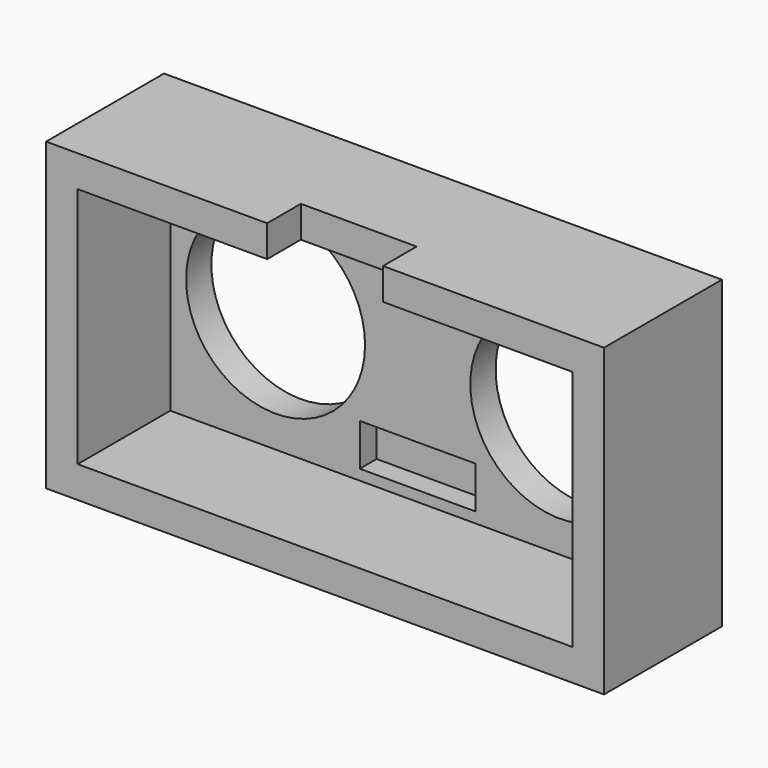
from build123d import *

# Parameters (mm, degrees)
F0_W     = 11
F0_H     = 4
F0_R     = 8.5
F1_DEPTH = 3
F2_DEPTH = 1
F0_W_2   = 3
F0_H_2   = 23
F0_H_3   = 3
F3_DEPTH = 14
F4_DEPTH = 10


with BuildPart() as f1:
    # F0 (on Front) → F1 (new body)
    with BuildSketch(Plane.XZ):
        Polygon((-5.5, 11.5), (-23.5, 11.5), (-23.5, -11.5), (-5.5, -11.5), (5.5, -11.5), (23.5, -11.5), (23.5, 11.5), (5.5, 11.5), align=None)
        with Locations((0, -8.5)):
            Rectangle(F0_W, F0_H, mode=Mode.SUBTRACT)
        with Locations((-13.5, 0)):
            Circle(F0_R, mode=Mode.SUBTRACT)
        with Locations((13.5, 0)):
            Circle(F0_R, mode=Mode.SUBTRACT)
    extrude(amount=F1_DEPTH)

    # F0 (on Front) → F2 (join)
    with BuildSketch(Plane.XZ):
        with Locations((0, -8.5)):
            Rectangle(F0_W, F0_H)
    extrude(amount=F2_DEPTH)

    # F0 (on Front) → F3 (join)
    with BuildSketch(Plane.XZ):
        Polygon((-26.5, 11.5), (-23.5, 11.5), (-5.5, 11.5), (-5.5, 14.5), (-26.5, 14.5), align=None)
        Polygon((5.5, 14.5), (5.5, 11.5), (23.5, 11.5), (26.5, 11.5), (26.5, 14.5), align=None)
        with Locations((-25, 0)):
            Rectangle(F0_W_2, F0_H_2)
        Polygon((23.5, -11.5), (5.5, -11.5), (5.5, -14.5), (26.5, -14.5), (26.5, -11.5), align=None)
        Polygon((-5.5, -11.5), (-23.5, -11.5), (-26.5, -11.5), (-26.5, -14.5), (-5.5, -14.5), align=None)
        with Locations((25, 0)):
            Rectangle(F0_W_2, F0_H_2)
        with Locations((0, -13)):
            Rectangle(F0_W, F0_H_3)
    extrude(amount=F3_DEPTH)

    # F0 (on Front) → F4 (join)
    with BuildSketch(Plane.XZ):
        with Locations((0, 13)):
            Rectangle(F0_W, F0_H_3)
    extrude(amount=F4_DEPTH)


solid = f1.part
